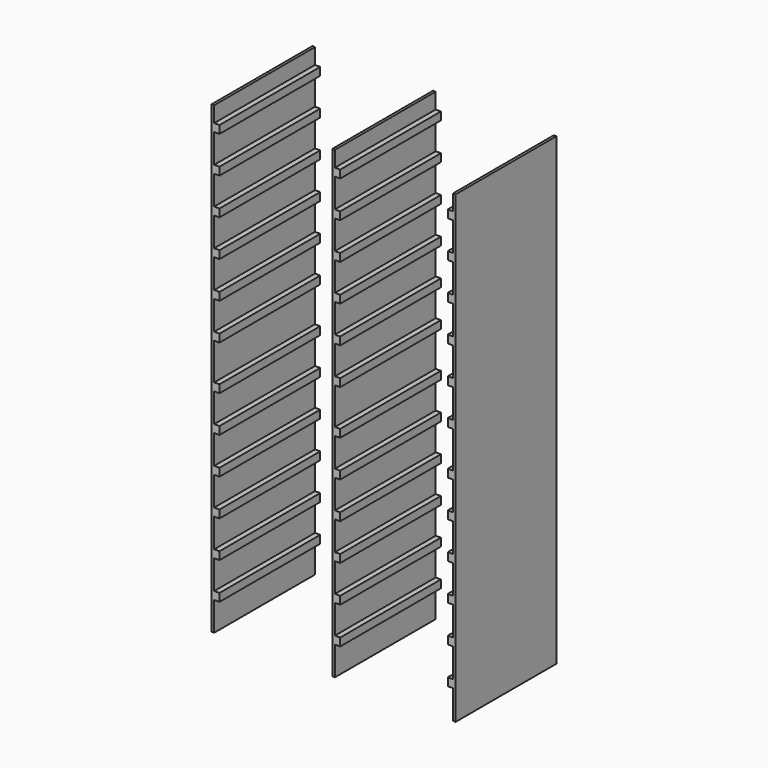
from build123d import *

# Parameters (mm, degrees)
F0_W     = 12.7
F0_H     = 19.05
F1_DEPTH = 304.8


with BuildPart() as f1:
    # F0 (on Front) → F1 (new body)
    with BuildSketch(Plane.XZ):
        with Locations((12.7, 79.375)):
            Rectangle(F0_W, F0_H)
        with Locations((12.7, 168.275)):
            Rectangle(F0_W, F0_H)
        with Locations((12.7, 257.175)):
            Rectangle(F0_W, F0_H)
        with Locations((12.7, 346.075)):
            Rectangle(F0_W, F0_H)
        with Locations((12.7, 434.975)):
            Rectangle(F0_W, F0_H)
        with Locations((12.7, 523.875)):
            Rectangle(F0_W, F0_H)
        with Locations((12.7, 898.525)):
            Rectangle(F0_W, F0_H)
        with Locations((12.7, 809.625)):
            Rectangle(F0_W, F0_H)
        with Locations((12.7, 1076.325)):
            Rectangle(F0_W, F0_H)
        with Locations((12.7, 631.825)):
            Rectangle(F0_W, F0_H)
        with Locations((12.7, 987.425)):
            Rectangle(F0_W, F0_H)
        with Locations((12.7, 720.725)):
            Rectangle(F0_W, F0_H)
        with Locations((577.85, 809.625)):
            Rectangle(F0_W, F0_H)
        with Locations((304.8, 809.625)):
            Rectangle(F0_W, F0_H)
        with Locations((577.85, 1076.325)):
            Rectangle(F0_W, F0_H)
        with Locations((304.8, 898.525)):
            Rectangle(F0_W, F0_H)
        with Locations((304.8, 1076.325)):
            Rectangle(F0_W, F0_H)
        with Locations((577.85, 631.825)):
            Rectangle(F0_W, F0_H)
        with Locations((577.85, 898.525)):
            Rectangle(F0_W, F0_H)
        with Locations((304.8, 720.725)):
            Rectangle(F0_W, F0_H)
        with Locations((304.8, 987.425)):
            Rectangle(F0_W, F0_H)
        with Locations((577.85, 720.725)):
            Rectangle(F0_W, F0_H)
        with Locations((577.85, 987.425)):
            Rectangle(F0_W, F0_H)
        with Locations((304.8, 631.825)):
            Rectangle(F0_W, F0_H)
        with Locations((577.85, 434.975)):
            Rectangle(F0_W, F0_H)
        with Locations((304.8, 523.875)):
            Rectangle(F0_W, F0_H)
        with Locations((304.8, 346.075)):
            Rectangle(F0_W, F0_H)
        with Locations((577.85, 168.275)):
            Rectangle(F0_W, F0_H)
        with Locations((577.85, 257.175)):
            Rectangle(F0_W, F0_H)
        with Locations((304.8, 168.275)):
            Rectangle(F0_W, F0_H)
        with Locations((304.8, 257.175)):
            Rectangle(F0_W, F0_H)
        with Locations((577.85, 523.875)):
            Rectangle(F0_W, F0_H)
        with Locations((304.8, 79.375)):
            Rectangle(F0_W, F0_H)
        with Locations((304.8, 434.975)):
            Rectangle(F0_W, F0_H)
        with Locations((577.85, 79.375)):
            Rectangle(F0_W, F0_H)
        with Locations((577.85, 346.075)):
            Rectangle(F0_W, F0_H)
        Polygon((0, 1123.95), (0, 0), (6.35, 0), (6.35, 19.05), (6.35, 69.85), (6.35, 88.9), (6.35, 158.75), (6.35, 177.8), (6.35, 247.65), (6.35, 266.7), (6.35, 336.55), (6.35, 355.6), (6.35, 425.45), (6.35, 444.5), (6.35, 514.35), (6.35, 533.4), (6.35, 552.45), (6.35, 571.5), (6.35, 622.3), (6.35, 641.35), (6.35, 711.2), (6.35, 730.25), (6.35, 800.1), (6.35, 819.15), (6.35, 889), (6.35, 908.05), (6.35, 977.9), (6.35, 996.95), (6.35, 1066.8), (6.35, 1085.85), (6.35, 1104.9), (6.35, 1123.95), align=None)
        Polygon((292.1, 19.05), (292.1, 0), (298.45, 0), (298.45, 19.05), (298.45, 69.85), (298.45, 88.9), (298.45, 158.75), (298.45, 177.8), (298.45, 247.65), (298.45, 266.7), (298.45, 336.55), (298.45, 355.6), (298.45, 425.45), (298.45, 444.5), (298.45, 514.35), (298.45, 533.4), (298.45, 552.45), (298.45, 571.5), (298.45, 622.3), (298.45, 641.35), (298.45, 711.2), (298.45, 730.25), (298.45, 800.1), (298.45, 819.15), (298.45, 889), (298.45, 908.05), (298.45, 977.9), (298.45, 996.95), (298.45, 1066.8), (298.45, 1085.85), (298.45, 1104.9), (298.45, 1123.95), (292.1, 1123.95), (292.1, 1104.9), (292.1, 571.5), (292.1, 552.45), align=None)
        Polygon((584.2, 19.05), (584.2, 0), (590.55, 0), (590.55, 1123.95), (584.2, 1123.95), (584.2, 1104.9), (584.2, 1085.85), (584.2, 1066.8), (584.2, 996.95), (584.2, 977.9), (584.2, 908.05), (584.2, 889), (584.2, 819.15), (584.2, 800.1), (584.2, 730.25), (584.2, 711.2), (584.2, 641.35), (584.2, 622.3), (584.2, 571.5), (584.2, 552.45), (584.2, 533.4), (584.2, 514.35), (584.2, 444.5), (584.2, 425.45), (584.2, 355.6), (584.2, 336.55), (584.2, 266.7), (584.2, 247.65), (584.2, 177.8), (584.2, 158.75), (584.2, 88.9), (584.2, 69.85), align=None)
    extrude(amount=F1_DEPTH)


solid = f1.part
